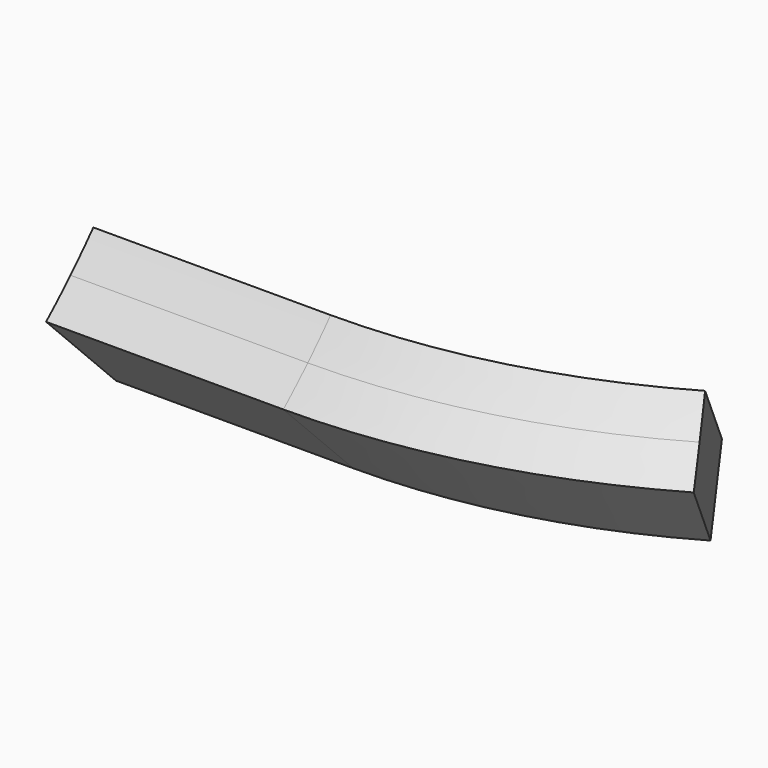
from build123d import *

# Parameters (mm, degrees)
F2_ANGLE = 30
F3_DEPTH = 25


with BuildPart() as f2:
    # F1 (on Right) → F2 (revolve)
    with BuildSketch(Plane.YZ):
        with BuildLine():
            Line((-55.786951, 12.00949), (-64.979339, 21.201879))
            ThreePointArc((-64.979339, 21.201879), (-66.458592, 19.571493), (-67.989844, 17.989844))
            Line((-67.989844, 17.989844), (-58.898221, 8.898221))
            Line((-58.898221, 8.898221), (-55.786951, 12.00949))
        make_face()
        with BuildLine():
            ThreePointArc((-67.989844, 17.989844), (-69.571493, 16.458592), (-71.201879, 14.979339))
            Line((-71.201879, 14.979339), (-62.00949, 5.786951))
            Line((-62.00949, 5.786951), (-58.898221, 8.898221))
            Line((-58.898221, 8.898221), (-67.989844, 17.989844))
        make_face()
    revolve(axis=Axis((0, 0, 12.074878), (0, 0, 1)), revolution_arc=F2_ANGLE)

    # F1 (on Right) → F3 (join)
    with BuildSketch(Plane.YZ):
        with BuildLine():
            ThreePointArc((-67.989844, 17.989844), (-69.571493, 16.458592), (-71.201879, 14.979339))
            Line((-71.201879, 14.979339), (-62.00949, 5.786951))
            Line((-62.00949, 5.786951), (-58.898221, 8.898221))
            Line((-58.898221, 8.898221), (-67.989844, 17.989844))
        make_face()
        with BuildLine():
            Line((-55.786951, 12.00949), (-64.979339, 21.201879))
            ThreePointArc((-64.979339, 21.201879), (-66.458592, 19.571493), (-67.989844, 17.989844))
            Line((-67.989844, 17.989844), (-58.898221, 8.898221))
            Line((-58.898221, 8.898221), (-55.786951, 12.00949))
        make_face()
    extrude(amount=-F3_DEPTH)


solid = f2.part
